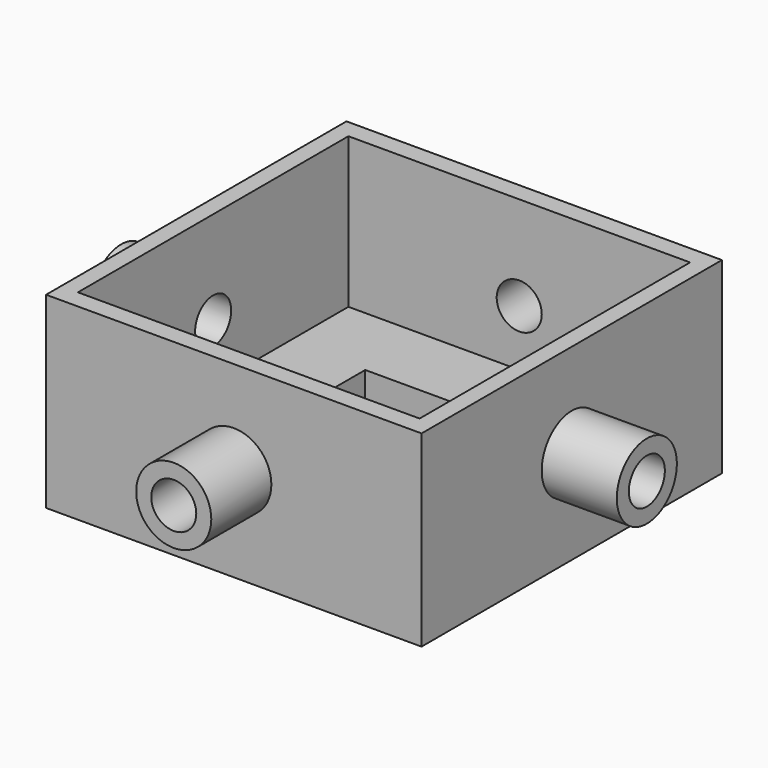
from build123d import *

# Parameters (mm, degrees)
F0_W      = 25.4
F0_H      = 25.4
F1_DEPTH  = 12.7
F2_W      = 23.1146477163
F2_H      = 22.8712297976
F3_DEPTH  = 10.16
F4_R      = 2.54
F5_DEPTH  = 5.08
F6_R      = 2.54
F7_DEPTH  = 5.08
F8_R      = 1.524
F9_DEPTH  = 35.561
F10_R     = 2.54
F11_DEPTH = 5.08
F12_R     = 2.54
F13_DEPTH = 5.08
F14_R     = 1.524
F15_DEPTH = 35.561
F16_W     = 12.7
F16_H     = 12.7
F17_DEPTH = 2.541


with BuildPart() as f1:
    # F0 (on Top) → F1 (new body)
    with BuildSketch(Plane.XY):
        Rectangle(F0_W, F0_H)
    extrude(amount=F1_DEPTH)

    # F2 (on face) → F3 (cut)
    with BuildSketch(Plane.XY.offset(12.7)):
        Rectangle(F2_W, F2_H)
    extrude(amount=-F3_DEPTH, mode=Mode.SUBTRACT)

    # F4 (on face) → F5 (join)
    with BuildSketch(Plane(origin=(0, 12.7, 0), x_dir=(-1, 0, 0), z_dir=(0, 1, 0))):
        with Locations((0, 6.35)):
            Circle(F4_R)
    extrude(amount=F5_DEPTH)

    # F6 (on face) → F7 (join)
    with BuildSketch(Plane.XZ.offset(12.7)):
        with Locations((0, 6.35)):
            Circle(F6_R)
    extrude(amount=F7_DEPTH)

    # F8 (on face) → F9 (cut, through all)
    with BuildSketch(Plane.XZ.offset(17.78)):
        with Locations((0, 6.35)):
            Circle(F8_R)
    extrude(amount=-F9_DEPTH, mode=Mode.SUBTRACT)

    # F10 (on face) → F11 (join)
    with BuildSketch(Plane.YZ.offset(12.7)):
        with Locations((0, 6.35)):
            Circle(F10_R)
    extrude(amount=F11_DEPTH)

    # F12 (on face) → F13 (join)
    with BuildSketch(Plane(origin=(-12.7, 0, 0), x_dir=(0, -1, 0), z_dir=(-1, 0, 0))):
        with Locations((0, 6.35)):
            Circle(F12_R)
    extrude(amount=F13_DEPTH)

    # F14 (on face) → F15 (cut, through all)
    with BuildSketch(Plane(origin=(-17.78, 0, 0), x_dir=(0, -1, 0), z_dir=(-1, 0, 0))):
        with Locations((0, 6.35)):
            Circle(F14_R)
    extrude(amount=-F15_DEPTH, mode=Mode.SUBTRACT)

    # F16 (on face) → F17 (cut, through all)
    with BuildSketch(Plane.XY.offset(2.54)):
        Rectangle(F16_W, F16_H)
    extrude(amount=-F17_DEPTH, mode=Mode.SUBTRACT)


solid = f1.part
